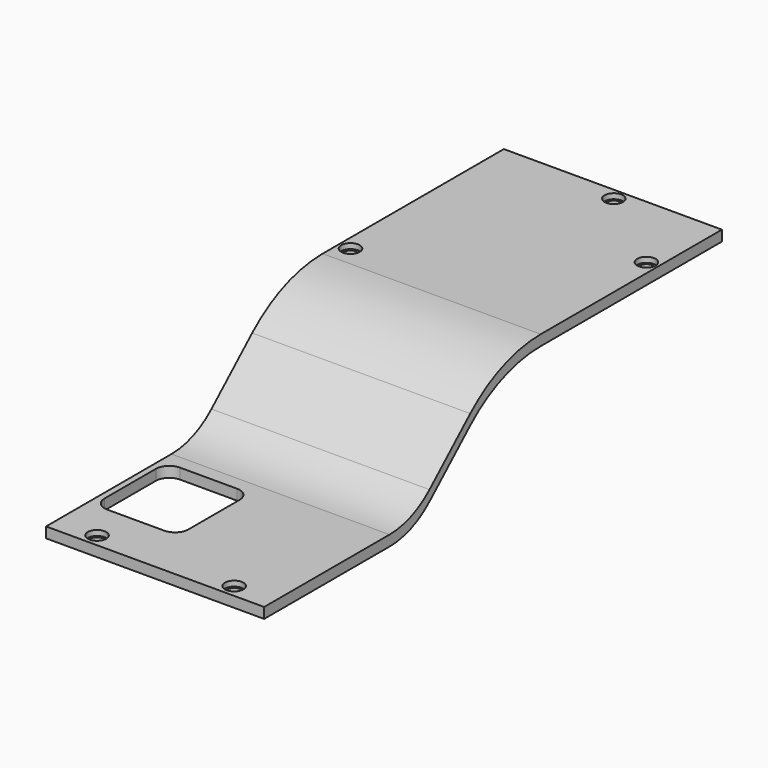
from build123d import *

# Parameters (mm, degrees)
PAD041_START        = 0.3
PAD041_DEPTH        = 41.4
HOLE006_D           = 2.6
HOLE006_DEPTH       = 3
HOLE006_CBORE_D     = 3.5
HOLE006_CBORE_DEPTH = 1
HOLE006_TIPS_R      = 1.3
POCKET012_DEPTH     = 3
HOLE007_D           = 2.6
HOLE007_DEPTH       = 4
HOLE007_CBORE_D     = 3.5
HOLE007_CBORE_DEPTH = 1


with BuildPart() as part:
    # Sketch063 (on Face1 of CopyPocket007) → Pad041 (new body)
    with BuildSketch(Plane.YZ.offset(-38.919239).offset(PAD041_START)):
        with BuildLine():
            Line((58.243801, 33.999995), (15.243801, 33.999995))
            ThreePointArc((15.243801, 33.999995), (6.279309, 32.328219), (-1.480028, 27.53764))
            Line((-1.480028, 27.53764), (-11.145172, 18.757006))
            ThreePointArc((-20.627205, 15.092996), (-15.54454, 16.040855), (-11.145172, 18.757006))
            Line((-20.627205, 15.092996), (-50.3848, 15.092996))
            Line((-50.3848, 15.092996), (-50.3848, 13.092994))
            Line((-20.627205, 13.092994), (-50.3848, 13.092994))
            ThreePointArc((-20.627205, 13.092994), (-15.54454, 14.040853), (-11.14517, 16.757003))
            Line((-1.480025, 25.537638), (-11.14517, 16.757003))
            ThreePointArc((15.243801, 31.999992), (6.27931, 30.328217), (-1.480025, 25.537638))
            Line((58.243801, 31.999992), (15.243801, 31.999992))
            Line((58.243801, 33.999995), (58.243801, 31.999992))
        make_face()
    extrude(amount=PAD041_DEPTH)

    # Hole006
    with Locations(Plane.XY.offset(33.999995)):
        with Locations((-36.423248, 19.105118), (0.57751, 43.077087), (-15.945976, 55.996437)):
            CounterBoreHole(HOLE006_D / 2, HOLE006_CBORE_D / 2, HOLE006_CBORE_DEPTH, depth=HOLE006_DEPTH)

    # Hole006 tips → Hole006 tip 1 section 0
    with BuildSketch(Plane.XY.offset(30.999995), mode=Mode.PRIVATE) as hole006_tip_1_s0:
        with Locations((-36.423248, 19.105118)):
            Circle(HOLE006_TIPS_R)
    loft([hole006_tip_1_s0.sketch, Vertex(-36.423248, 19.105118, 30.218876)], mode=Mode.SUBTRACT)

    # Hole006 tips → Hole006 tip 2 section 0
    with BuildSketch(Plane.XY.offset(30.999995), mode=Mode.PRIVATE) as hole006_tip_2_s0:
        with Locations((0.57751, 43.077087)):
            Circle(HOLE006_TIPS_R)
    loft([hole006_tip_2_s0.sketch, Vertex(0.57751, 43.077087, 30.218876)], mode=Mode.SUBTRACT)

    # Hole006 tips → Hole006 tip 3 section 0
    with BuildSketch(Plane.XY.offset(30.999995), mode=Mode.PRIVATE) as hole006_tip_3_s0:
        with Locations((-15.945976, 55.996437)):
            Circle(HOLE006_TIPS_R)
    loft([hole006_tip_3_s0.sketch, Vertex(-15.945976, 55.996437, 30.218876)], mode=Mode.SUBTRACT)

    # Sketch065 (on Face12 of Hole006) → Pocket012 (cut)
    with BuildSketch(Plane.XY.offset(15.092996)):
        with BuildLine():
            Line((-37.458851, -25.793337), (-37.458851, -37.953597))
            ThreePointArc((-37.458851, -37.953597), (-36.711973, -39.756719), (-34.908851, -40.503597))
            Line((-34.908851, -40.503597), (-24.089139, -40.503597))
            ThreePointArc((-24.089139, -40.503597), (-22.286017, -39.756719), (-21.539139, -37.953597))
            Line((-21.539139, -37.953597), (-21.539139, -25.793337))
            ThreePointArc((-21.539139, -25.793337), (-22.286017, -23.990215), (-24.089139, -23.243337))
            Line((-24.089139, -23.243337), (-34.908851, -23.243337))
            ThreePointArc((-34.908851, -23.243337), (-36.711973, -23.990215), (-37.458851, -25.793337))
        make_face()
    extrude(amount=-POCKET012_DEPTH, mode=Mode.SUBTRACT)

    # Hole007
    with Locations(Plane.XY.offset(15.092996)):
        with Locations((-4.888495, -47.913956), (-30.924999, -47.913956)):
            CounterBoreHole(HOLE007_D / 2, HOLE007_CBORE_D / 2, HOLE007_CBORE_DEPTH, depth=HOLE007_DEPTH)


solid = part.part
